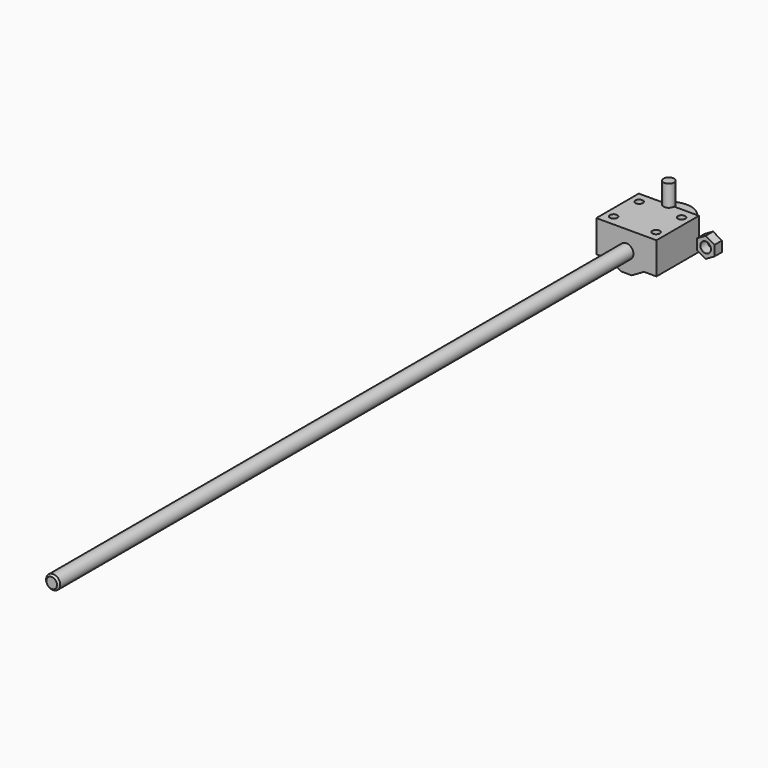
from build123d import *

# Parameters (mm, degrees)
F0_R      = 4
F1_DEPTH  = 380
F2_DEPTH  = 436
F3_SIZE   = 1
F3_2_SIZE = 1
F4_R      = 4
F5_DEPTH  = 5
F4_R_2    = 3
F6_DEPTH  = 5.24
F7_R      = 4
F8_DEPTH  = 30
F10_D     = 4.2
F10_DEPTH = 13.5
F10_TIP   = 1.2618073
F11_R     = 12.5
F11_R_2   = 3
F12_DEPTH = 6
F13_DEPTH = 23


with BuildPart() as f1:
    # F0 (on Front) → F1 (new body)
    with BuildSketch(Plane.XZ):
        Circle(F0_R)
    extrude(amount=F1_DEPTH)

    # F3
    f3_edges = [f1.edges().sort_by_distance(p)[0] for p in [
        (-4, -380, 0),
        (-4, 0, 0),
    ]]
    chamfer(f3_edges, length=F3_SIZE)


with BuildPart() as f2:
    # F0 (on Front) → F2 (new body)
    with BuildSketch(Plane.XZ):
        Circle(F0_R)
    extrude(amount=F2_DEPTH)

    # F3#2
    f3_2_edges = [f2.edges().sort_by_distance(p)[0] for p in [
        (-4, 0, 0),
        (-4, -436, 0),
    ]]
    chamfer(f3_2_edges, length=F3_2_SIZE)


with BuildPart() as f5:
    # F4 (on Front) → F5 (new body)
    with BuildSketch(Plane.XZ):
        Polygon((6.5, -3.7527767497), (6.5, 3.7527767497), (0, 7.5055534995), (-6.5, 3.7527767497), (-6.5, -3.7527767497), (0, -7.5055534995), align=None)
        Circle(F4_R, mode=Mode.SUBTRACT)
    extrude(amount=F5_DEPTH)


with BuildPart() as f6:
    # F4 (on Front) → F6 (new body)
    with BuildSketch(Plane.XZ):
        Polygon((30, -2.8867513459), (30, 2.8867513459), (25, 5.7735026919), (20, 2.8867513459), (20, -2.8867513459), (25, -5.7735026919), align=None)
        with Locations((25, 0)):
            Circle(F4_R_2, mode=Mode.SUBTRACT)
    extrude(amount=F6_DEPTH)


with BuildPart() as f8:
    # F7 (on Front) → F8 (new body)
    with BuildSketch(Plane.XZ):
        Polygon((-17, 11), (-17, -7), (-10, -7), (-3, -11), (3, -11), (10, -7), (17, -7), (17, 11), align=None)
        Circle(F7_R, mode=Mode.SUBTRACT)
    extrude(amount=F8_DEPTH)

    # F10
    with Locations(Plane.XY.offset(11)):
        with Locations((12, -24), (12, -6), (-12, -6), (-12, -24)):
            Hole(F10_D / 2, depth=F10_DEPTH)
            with Locations((0, 0, -(F10_DEPTH + F10_TIP / 2))):  # 118° drill point
                Cone(0, F10_D / 2, F10_TIP, mode=Mode.SUBTRACT)


with BuildPart() as f12:
    # F11 (on Top) → F12 (new body)
    with BuildSketch(Plane.XY):
        Circle(F11_R)
        Circle(F11_R_2, mode=Mode.SUBTRACT)
    extrude(amount=F12_DEPTH)

    # F11 (on Top) → F13 (join)
    with BuildSketch(Plane.XY):
        Circle(F11_R_2)
    extrude(amount=F13_DEPTH)


solid = Compound([f1.part, f2.part, f5.part, f6.part, f8.part, f12.part])
